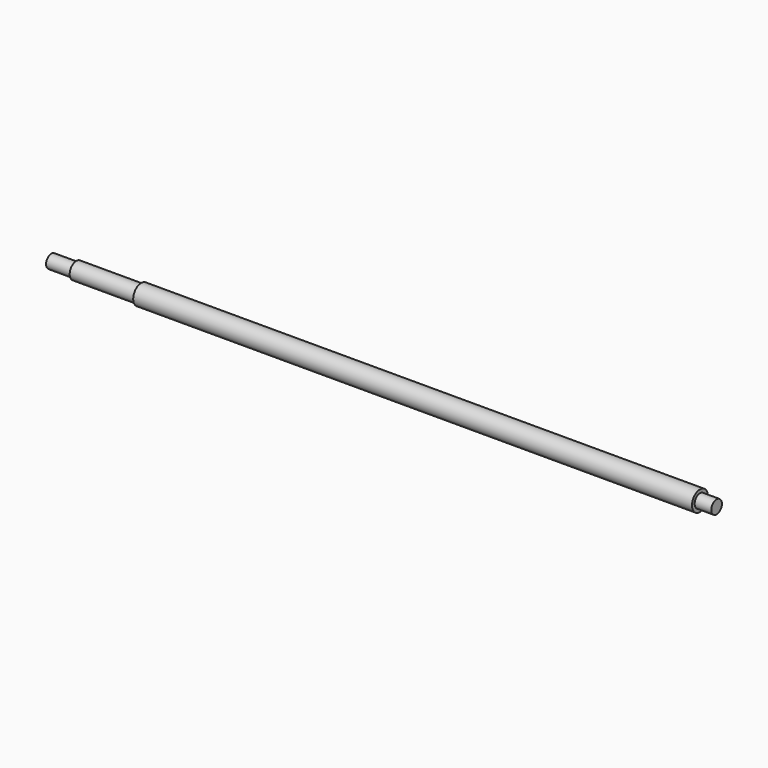
from build123d import *

# Parameters (mm, degrees)
F0_R     = 6
F1_DEPTH = 200
F2_R     = 6
F2_R_2   = 4
F3_DEPTH = 10
F4_R     = 6
F4_R_2   = 5
F5_DEPTH = 54
F6_R     = 5
F6_R_2   = 4
F7_DEPTH = 15


with BuildPart() as f1:
    # F0 (on Right) → F1 (new body, symmetric)
    with BuildSketch(Plane.YZ):
        Circle(F0_R)
    extrude(amount=F1_DEPTH, both=True)

    # F2 (on face) → F3 (cut)
    with BuildSketch(Plane.YZ.offset(200)):
        Circle(F2_R)
        Circle(F2_R_2, mode=Mode.SUBTRACT)
    extrude(amount=-F3_DEPTH, mode=Mode.SUBTRACT)

    # F4 (on face) → F5 (cut)
    with BuildSketch(Plane(origin=(-200, 0, 0), x_dir=(0, -1, 0), z_dir=(-1, 0, 0))):
        Circle(F4_R)
        Circle(F4_R_2, mode=Mode.SUBTRACT)
    extrude(amount=-F5_DEPTH, mode=Mode.SUBTRACT)

    # F6 (on face) → F7 (cut)
    with BuildSketch(Plane(origin=(-200, 0, 0), x_dir=(0, -1, 0), z_dir=(-1, 0, 0))):
        Circle(F6_R)
        Circle(F6_R_2, mode=Mode.SUBTRACT)
    extrude(amount=-F7_DEPTH, mode=Mode.SUBTRACT)


solid = f1.part
